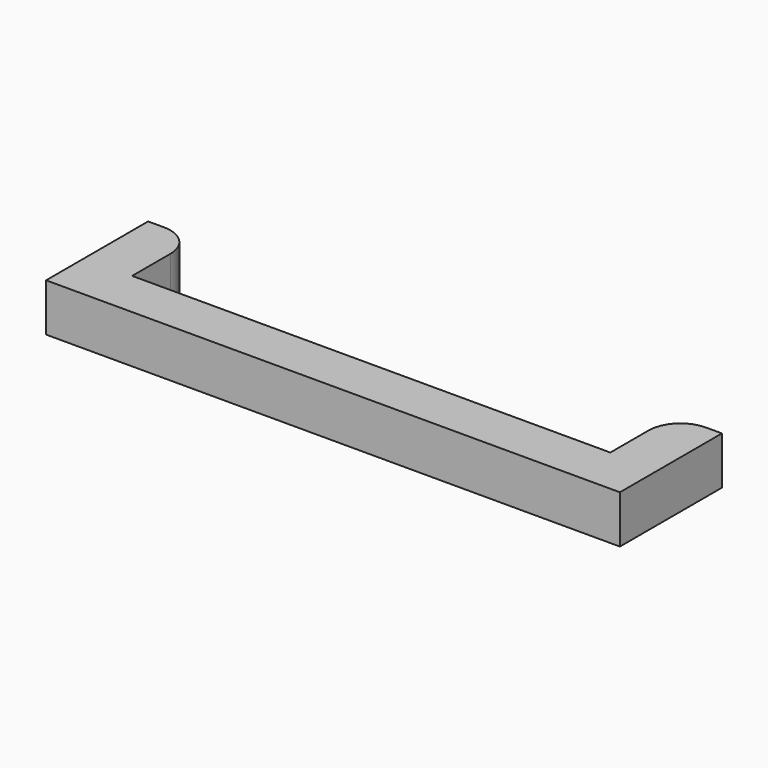
from build123d import *

# Parameters (mm, degrees)
F0_W     = 30
F0_H     = 3
F1_DEPTH = 3


with BuildPart() as f1:
    # F0 (on Top) → F1 (new body)
    with BuildSketch(Plane.XY):
        with Locations((-4.936537, 0.902144)):
            Rectangle(F0_W, F0_H)
        with BuildLine():
            Line((10.063463, 2.402144), (10.063463, -0.597856))
            Line((10.063463, -0.597856), (13.063463, -0.597856))
            Line((13.063463, -0.597856), (13.063463, 7.402144))
            Line((13.063463, 7.402144), (12.063463, 7.402144))
            ThreePointArc((12.063463, 7.402144), (10.649249, 6.816358), (10.063463, 5.402144))
            Line((10.063463, 5.402144), (10.063463, 2.402144))
        make_face()
        with BuildLine():
            Line((-22.936537, -0.597856), (-19.936537, -0.597856))
            Line((-19.936537, -0.597856), (-19.936537, 2.402144))
            Line((-19.936537, 2.402144), (-19.936537, 5.402144))
            ThreePointArc((-19.936537, 5.402144), (-20.522324, 6.816358), (-21.936537, 7.402144))
            Line((-21.936537, 7.402144), (-22.936537, 7.402144))
            Line((-22.936537, 7.402144), (-22.936537, -0.597856))
        make_face()
    extrude(amount=F1_DEPTH)


solid = f1.part
